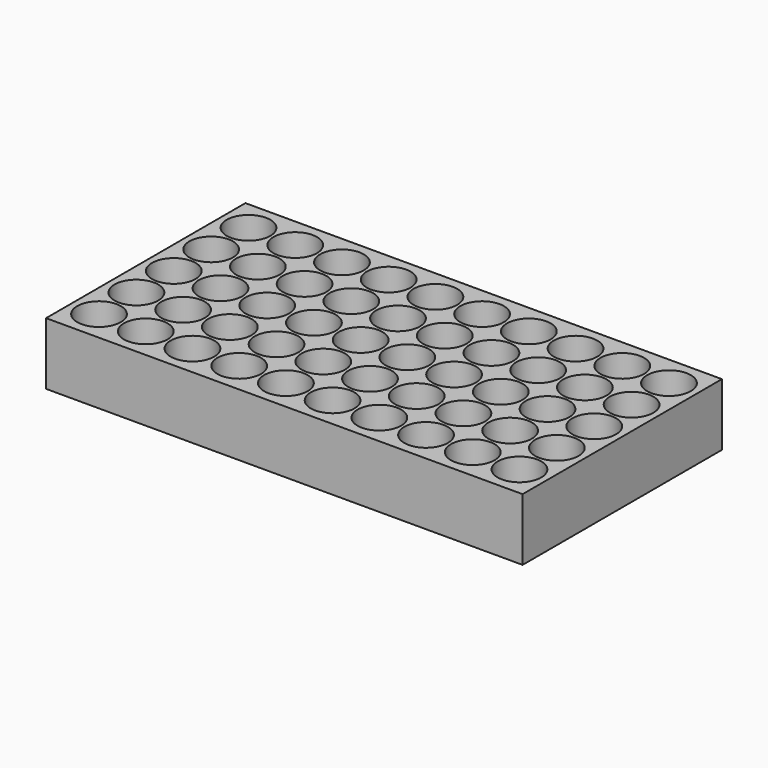
from build123d import *

# Parameters (mm, degrees)
CYLINDER_R     = 7
CYLINDER_DEPTH = 20
ARRAY_X_COUNT  = 10
ARRAY_X_PITCH  = 15
ARRAY_Y_COUNT  = 5
ARRAY_Y_PITCH  = 15
BOX_W          = 153
BOX_H          = 80
BOX_DEPTH      = 20


with BuildPart() as obj1:
    # Cylinder → Cylinder (new body)
    with BuildSketch(Plane.XY.offset(2)):
        Circle(CYLINDER_R)
    extrude(amount=CYLINDER_DEPTH)

    # Array X: obj1 ×10


with BuildPart() as obj1_1:
    add(obj1.part)
    with Locations(*[(i * ARRAY_X_PITCH, 0, 0) for i in range(1, ARRAY_X_COUNT)]):
        add(obj1.part)

    # Array Y: obj1 ×5


with BuildPart() as obj1_2:
    add(obj1_1.part)
    with Locations(*[(0, i * ARRAY_Y_PITCH, 0) for i in range(1, ARRAY_Y_COUNT)]):
        add(obj1_1.part)


with BuildPart() as obj2:
    # Box → Box (new body)
    with BuildSketch(Plane(origin=(-9, -10, 0), x_dir=(1, 0, 0), z_dir=(0, 0, 1))):
        with Locations((76.5, 40)):
            Rectangle(BOX_W, BOX_H)
    extrude(amount=BOX_DEPTH)

    # Cut: cut obj1
    add(obj1_2.part, mode=Mode.SUBTRACT)


solid = obj2.part
